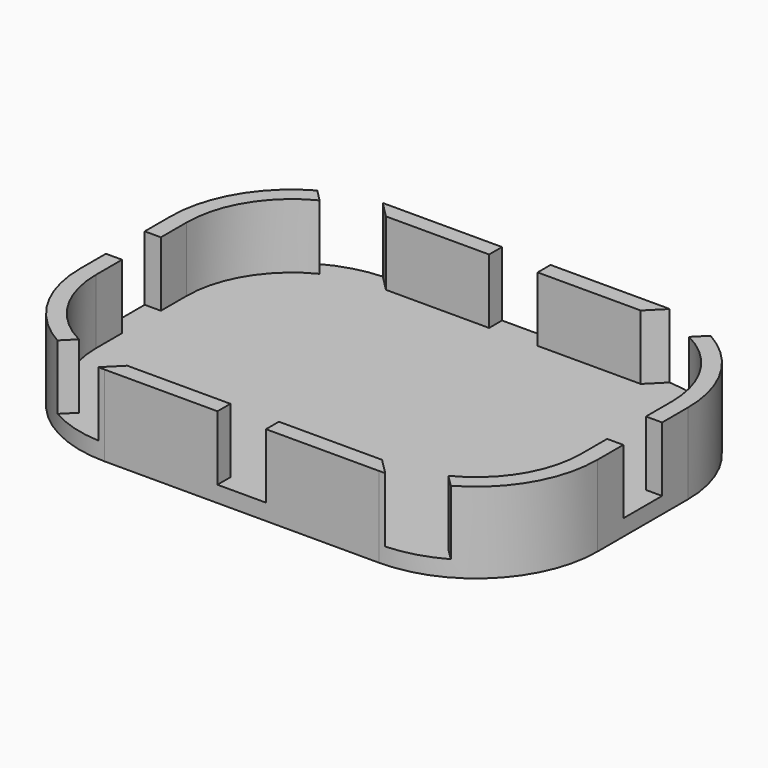
from build123d import *

# Parameters (mm, degrees)
PAD_DEPTH          = 10
SKETCH002_W        = 6
SKETCH002_H        = 8
POCKET_DEPTH       = 178.615176
POLARPATTERN_COUNT = 8
PAD001_DEPTH       = 2


with BuildPart() as part:
    # Sketch → Pad (new body)
    with BuildSketch(Plane.XY):
        with BuildLine():
            Line((-32, 7), (-32, -7))
            ThreePointArc((-32, -7), (-27.606602, -17.606602), (-17, -22))
            Line((-17, -22), (17, -22))
            ThreePointArc((17, -22), (27.606602, -17.606602), (32, -7))
            Line((32, -7), (32, 7))
            ThreePointArc((32, 7), (27.606602, 17.606602), (17, 22))
            Line((17, 22), (-17, 22))
            ThreePointArc((-17, 22), (-27.606602, 17.606602), (-32, 7))
        make_face()
        with BuildLine():
            Line((-30, 7), (-30, -7))
            ThreePointArc((-30, -7), (-26.192388, -16.192388), (-17, -20))
            Line((-17, -20), (17, -20))
            ThreePointArc((17, -20), (26.192388, -16.192388), (30, -7))
            Line((30, -7), (30, 7))
            ThreePointArc((30, 7), (26.192388, 16.192388), (17, 20))
            Line((17, 20), (-17, 20))
            ThreePointArc((-17, 20), (-26.192388, 16.192388), (-30, 7))
        make_face(mode=Mode.SUBTRACT)
    extrude(amount=PAD_DEPTH)

    # Sketch002 → Pocket (cut, through all)
    with BuildSketch(Plane.XZ):
        with Locations((0, 6)):
            Rectangle(SKETCH002_W, SKETCH002_H)
    pocket = extrude(amount=-POCKET_DEPTH, mode=Mode.SUBTRACT)

    # PolarPattern: Pocket ×8 about axis
    polarpattern_axis = Axis((0, 0, 0), (0, 0, 1))
    for i in range(1, POLARPATTERN_COUNT):
        add(pocket.rotate(polarpattern_axis, i * 360 / POLARPATTERN_COUNT), mode=Mode.SUBTRACT)

    # Sketch001 → Pad001 (join)
    with BuildSketch(Plane.XY):
        with BuildLine():
            Line((-31, 6), (-31, -6))
            ThreePointArc((-31, -6), (-26.606602, -16.606602), (-16, -21))
            Line((-16, -21), (16, -21))
            ThreePointArc((16, -21), (26.606602, -16.606602), (31, -6))
            Line((31, -6), (31, 6))
            ThreePointArc((31, 6), (26.606602, 16.606602), (16, 21))
            Line((16, 21), (-16, 21))
            ThreePointArc((-16, 21), (-26.606602, 16.606602), (-31, 6))
        make_face()
    extrude(amount=PAD001_DEPTH)


solid = part.part
